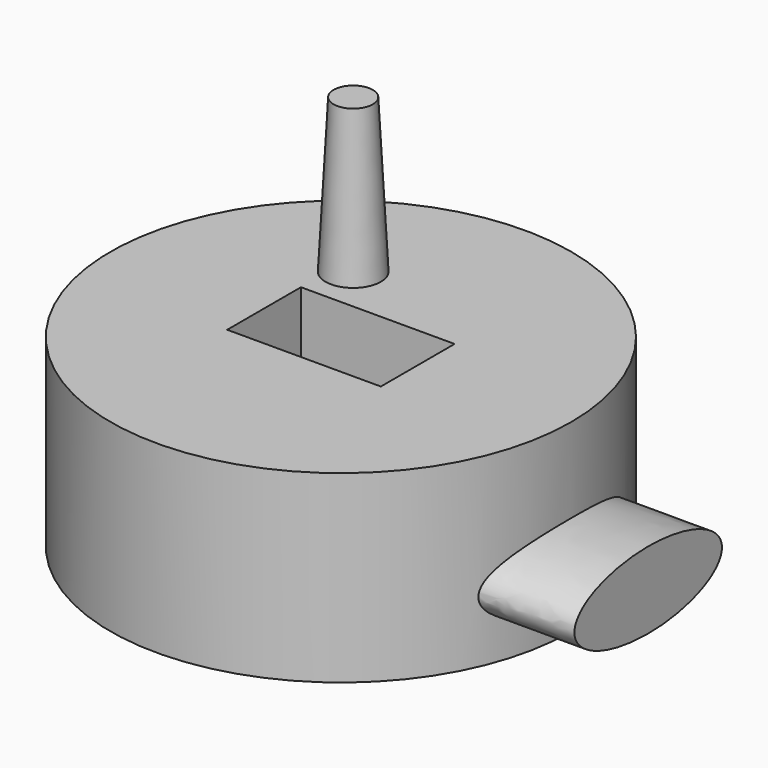
from build123d import *

# Parameters (mm, degrees)
F0_R     = 75
F1_DEPTH = 60
F2_W     = 50
F2_H     = 30
F3_DEPTH = 60.001
F6_DEPTH = 31.2613646757
F7_R     = 9
F8_DEPTH = 50
F8_TAPER = 3


with BuildPart() as f1:
    # F0 (on Top) → F1 (new body)
    with BuildSketch(Plane.XY):
        Circle(F0_R)
    extrude(amount=F1_DEPTH)

    # F2 (on face) → F3 (cut, through all)
    with BuildSketch(Plane.XY.offset(60)):
        Rectangle(F2_W, F2_H)
    extrude(amount=-F3_DEPTH, mode=Mode.SUBTRACT)

    # F5 (on offset) → F6 (join, through all)
    with BuildSketch(Plane.YZ.offset(100)):
        with BuildLine():
            add(Edge.make_bspline(
                [(30, 20), (30, 41.6506350946), (-15, 30.8253175473), (-60, 20), (-15, 9.1746824527), (30, -1.6506350946), (30, 20)],
                knots=[0, 0, 0, 2.0943951024, 2.0943951024, 4.1887902048, 4.1887902048, 6.2831853072, 6.2831853072, 6.2831853072], degree=2, weights=[1, 0.5, 1, 0.5, 1, 0.5, 1]))
        make_face()
    extrude(amount=-F6_DEPTH)

    # F7 (on face) → F8 (join)
    with BuildSketch(Plane.XY.offset(60)):
        with Locations((-20, 30)):
            Circle(F7_R)
    extrude(amount=F8_DEPTH, taper=F8_TAPER)


solid = f1.part
